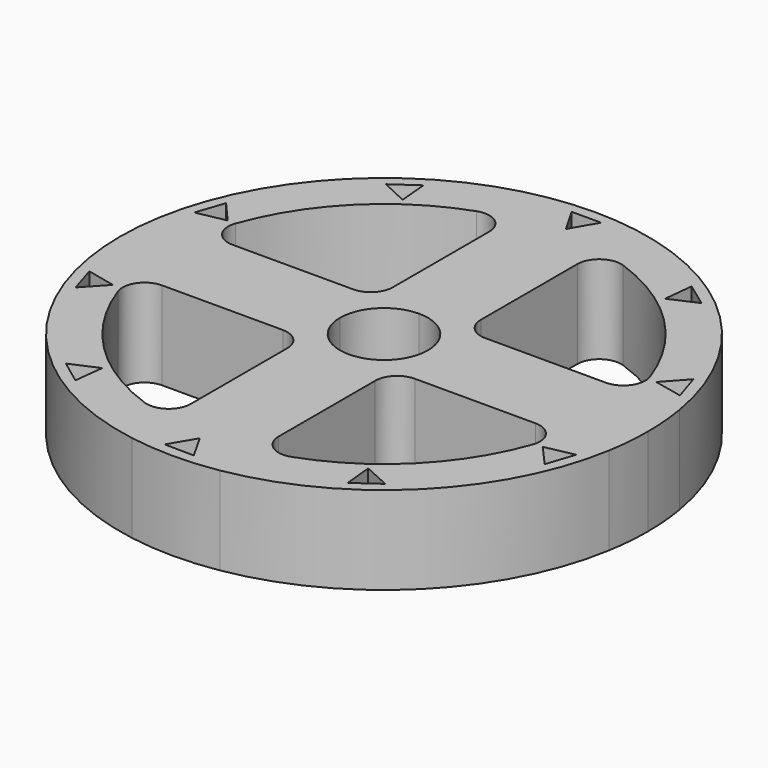
from build123d import *

# Parameters (mm, degrees)
F1_DEPTH = 12.7


with BuildPart() as f1:
    # F0 (on Top) → F1 (new body, symmetric)
    with BuildSketch(Plane.XY):
        with BuildLine():
            ThreePointArc((75.134213, -12.7), (75.933086, -6.372321), (76.2, 0))
            ThreePointArc((76.2, 0), (75.933086, 6.372321), (75.134213, 12.7))
            ThreePointArc((75.134213, 12.7), (53.881537, 53.881537), (12.7, 75.134213))
            ThreePointArc((12.7, 75.134213), (0, 76.2), (-12.7, 75.134213))
            ThreePointArc((-12.7, 75.134213), (-53.881537, 53.881537), (-75.134213, 12.7))
            ThreePointArc((-75.134213, 12.7), (-76.2, 0), (-75.134213, -12.7))
            ThreePointArc((-75.134213, -12.7), (-53.881537, -53.881537), (-12.7, -75.134213))
            ThreePointArc((-12.7, -75.134213), (0, -76.2), (12.7, -75.134213))
            ThreePointArc((12.7, -75.134213), (53.881537, -53.881537), (75.134213, -12.7))
        make_face()
        Polygon((-39.219381, -52.680772), (-40.204984, -61.113142), (-47.01483, -56.0434), align=None, mode=Mode.SUBTRACT)
        Polygon((-0.636809, -65.673572), (3.53659, -73.066746), (-4.952786, -72.984428), align=None, mode=Mode.SUBTRACT)
        Polygon((-62.731954, -19.445449), (-68.497842, -25.676887), (-71.011482, -17.567763), align=None, mode=Mode.SUBTRACT)
        with BuildLine():
            ThreePointArc((-21.166667, -59.868374), (-44.901281, -44.901281), (-59.868374, -21.166667))
            ThreePointArc((-59.868374, -21.166667), (-59.06629, -15.383826), (-53.881537, -12.7))
            Line((-53.881537, -12.7), (-19.05, -12.7))
            ThreePointArc((-19.05, -12.7), (-14.559872, -14.559872), (-12.7, -19.05))
            Line((-12.7, -19.05), (-12.7, -53.881537))
            ThreePointArc((-12.7, -53.881537), (-15.383826, -59.06629), (-21.166667, -59.868374))
        make_face(mode=Mode.SUBTRACT)
        Polygon((38.190457, -53.431382), (45.919233, -56.944542), (39.012359, -61.881279), align=None, mode=Mode.SUBTRACT)
        with BuildLine():
            ThreePointArc((12.7, -19.05), (14.559872, -14.559872), (19.05, -12.7))
            Line((19.05, -12.7), (53.881537, -12.7))
            ThreePointArc((53.881537, -12.7), (59.06629, -15.383826), (59.868374, -21.166667))
            ThreePointArc((59.868374, -21.166667), (44.901281, -44.901281), (21.166667, -59.868374))
            ThreePointArc((21.166667, -59.868374), (15.383826, -59.06629), (12.7, -53.881537))
            Line((12.7, -53.881537), (12.7, -19.05))
        make_face(mode=Mode.SUBTRACT)
        Polygon((62.343086, -20.658249), (70.657467, -18.941467), (67.987053, -27.000324), align=None, mode=Mode.SUBTRACT)
        Polygon((-62.13985, 21.261764), (-70.470487, 19.62568), (-67.722059, 27.658265), align=None, mode=Mode.SUBTRACT)
        with BuildLine():
            Line((-12.7, 53.881537), (-12.7, 19.05))
            ThreePointArc((-12.7, 19.05), (-14.559872, 14.559872), (-19.05, 12.7))
            Line((-19.05, 12.7), (-53.881537, 12.7))
            ThreePointArc((-53.881537, 12.7), (-59.06629, 15.383826), (-59.868374, 21.166667))
            ThreePointArc((-59.868374, 21.166667), (-44.901281, 44.901281), (-21.166667, 59.868374))
            ThreePointArc((-21.166667, 59.868374), (-15.383826, 59.06629), (-12.7, 53.881537))
        make_face(mode=Mode.SUBTRACT)
        Polygon((-37.670584, 53.79917), (-45.364933, 57.387104), (-38.410517, 62.256639), align=None, mode=Mode.SUBTRACT)
        with BuildLine():
            ThreePointArc((0, 12.7), (8.980256, 8.980256), (12.7, 0))
            ThreePointArc((12.7, 0), (8.980256, -8.980256), (0, -12.7))
            ThreePointArc((0, -12.7), (-8.980256, -8.980256), (-12.7, 0))
            ThreePointArc((-12.7, 0), (-8.980256, 8.980256), (0, 12.7))
        make_face(mode=Mode.SUBTRACT)
        with BuildLine():
            ThreePointArc((19.05, 12.7), (14.559872, 14.559872), (12.7, 19.05))
            Line((12.7, 19.05), (12.7, 53.881537))
            ThreePointArc((12.7, 53.881537), (15.383826, 59.06629), (21.166667, 59.868374))
            ThreePointArc((21.166667, 59.868374), (44.901281, 44.901281), (59.868374, 21.166667))
            ThreePointArc((59.868374, 21.166667), (59.06629, 15.383826), (53.881537, 12.7))
            Line((53.881537, 12.7), (19.05, 12.7))
        make_face(mode=Mode.SUBTRACT)
        Polygon((62.54046, 20.052792), (68.245656, 26.339844), (70.837805, 18.255473), align=None, mode=Mode.SUBTRACT)
        Polygon((-4.244888, 73.02902), (4.244888, 73.02902), (0, 65.676659), align=None, mode=Mode.SUBTRACT)
        Polygon((38.706739, 53.058571), (39.610534, 61.500102), (46.469216, 56.496627), align=None, mode=Mode.SUBTRACT)
    extrude(amount=F1_DEPTH, both=True)


solid = f1.part
